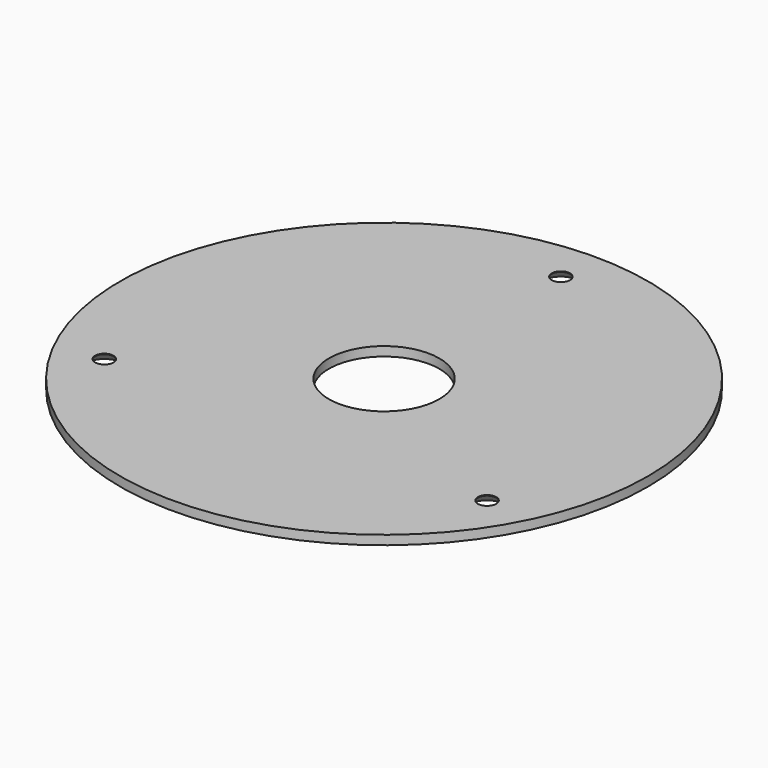
from build123d import *

# Parameters (mm, degrees)
SKETCH006_R   = 43
SKETCH006_R_2 = 1.5
SKETCH006_R_3 = 9
PAD_DEPTH     = 1.5
CHAMFER_SIZE  = 1.4


with BuildPart() as part:
    # Sketch006 → Pad (new body)
    with BuildSketch(Plane.XY.offset(22)):
        Circle(SKETCH006_R)
        with Locations((0, 36)):
            Circle(SKETCH006_R_2, mode=Mode.SUBTRACT)
        with Locations((31.176915, -18)):
            Circle(SKETCH006_R_2, mode=Mode.SUBTRACT)
        with Locations((-31.176915, -18)):
            Circle(SKETCH006_R_2, mode=Mode.SUBTRACT)
        Circle(SKETCH006_R_3, mode=Mode.SUBTRACT)
    extrude(amount=PAD_DEPTH)

    # Chamfer
    chamfer_edges = [part.edges().sort_by_distance(p)[0] for p in [
        (-32.676915, -18, 22),
        (-1.5, 36, 22),
        (29.676915, -18, 22),
    ]]
    chamfer(chamfer_edges, length=CHAMFER_SIZE)


solid = part.part
